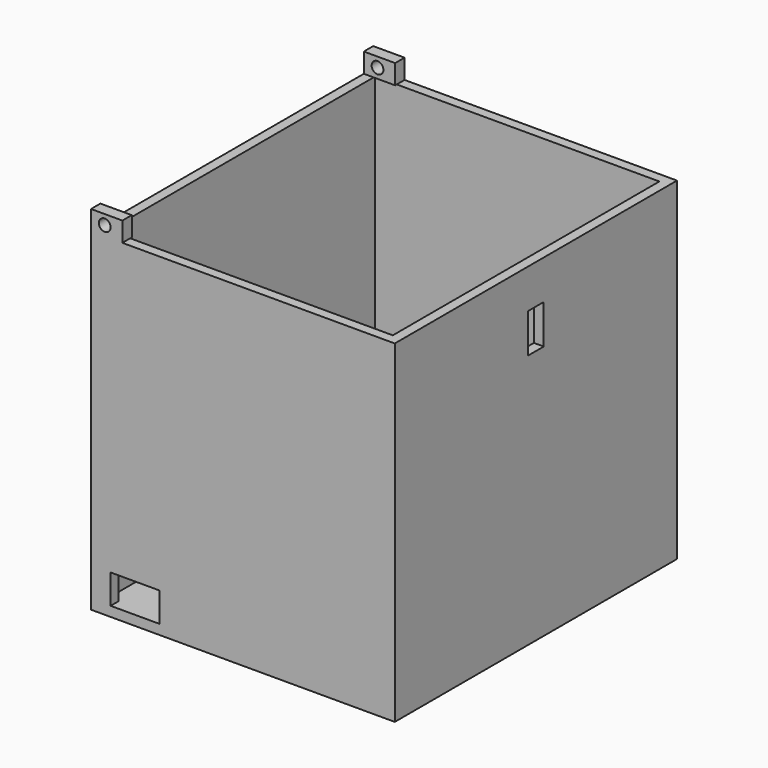
from build123d import *

# Parameters (mm, degrees)
CYLINDER003_R     = 3
CYLINDER003_DEPTH = 148
BOX013_W          = 16
BOX013_H          = 6
BOX013_DEPTH      = 10
CYLINDER002_R     = 3
CYLINDER002_DEPTH = 148
BOX012_W          = 16
BOX012_H          = 6
BOX012_DEPTH      = 10
BOX011_W          = 12
BOX011_H          = 10
BOX011_DEPTH      = 20
BOX010_W          = 25
BOX010_H          = 25
BOX010_DEPTH      = 15
BOX009_W          = 145
BOX009_H          = 170
BOX009_DEPTH      = 200
BOX008_W          = 155
BOX008_H          = 180
BOX008_DEPTH      = 170


with BuildPart() as cylinder003:
    # Cylinder003 → Cylinder003 (new body)
    with BuildSketch(Plane(origin=(7, 139, 175), x_dir=(1, 0, 0), z_dir=(0, -1, 0))):
        Circle(CYLINDER003_R)
    extrude(amount=CYLINDER003_DEPTH)


with BuildPart() as obj1:
    # Box013 → Box013 (new body)
    with BuildSketch(Plane.XY.offset(170)):
        with Locations((8, 3)):
            Rectangle(BOX013_W, BOX013_H)
    extrude(amount=BOX013_DEPTH)

    # Cut010: cut Cylinder003
    add(cylinder003.part, mode=Mode.SUBTRACT)


with BuildPart() as cylinder002:
    # Cylinder002 → Cylinder002 (new body)
    with BuildSketch(Plane(origin=(7, 192, 175), x_dir=(1, 0, 0), z_dir=(0, -1, 0))):
        Circle(CYLINDER002_R)
    extrude(amount=CYLINDER002_DEPTH)


with BuildPart() as obj2:
    # Box012 → Box012 (new body)
    with BuildSketch(Plane(origin=(0, 174, 170), x_dir=(1, 0, 0), z_dir=(0, 0, 1))):
        with Locations((8, 3)):
            Rectangle(BOX012_W, BOX012_H)
    extrude(amount=BOX012_DEPTH)

    # Cut009: cut Cylinder002
    add(cylinder002.part, mode=Mode.SUBTRACT)


with BuildPart() as cube006:
    # Box011 → Box011 (new body)
    with BuildSketch(Plane(origin=(146, 85, 130), x_dir=(1, 0, 0), z_dir=(0, 0, 1))):
        with Locations((6, 5)):
            Rectangle(BOX011_W, BOX011_H)
    extrude(amount=BOX011_DEPTH)


with BuildPart() as agujero001:
    # Box010 → Box010 (new body)
    with BuildSketch(Plane(origin=(10, -7, 5), x_dir=(1, 0, 0), z_dir=(0, 0, 1))):
        with Locations((12.5, 12.5)):
            Rectangle(BOX010_W, BOX010_H)
    extrude(amount=BOX010_DEPTH)


with BuildPart() as cube005:
    # Box009 → Box009 (new body)
    with BuildSketch(Plane(origin=(5, 5, 5), x_dir=(1, 0, 0), z_dir=(0, 0, 1))):
        with Locations((72.5, 85)):
            Rectangle(BOX009_W, BOX009_H)
    extrude(amount=BOX009_DEPTH)


with BuildPart() as caja002:
    # Box008 → Box008 (new body)
    with BuildSketch(Plane.XY):
        with Locations((77.5, 90)):
            Rectangle(BOX008_W, BOX008_H)
    extrude(amount=BOX008_DEPTH)

    # Cut006: cut Cube005
    add(cube005.part, mode=Mode.SUBTRACT)

    # Cut007: cut Agujero001
    add(agujero001.part, mode=Mode.SUBTRACT)

    # Cut008: cut Cube006
    add(cube006.part, mode=Mode.SUBTRACT)

    # Fusion003: union obj2
    add(obj2.part)

    # Fusion004: union obj1
    add(obj1.part)


solid = caja002.part
